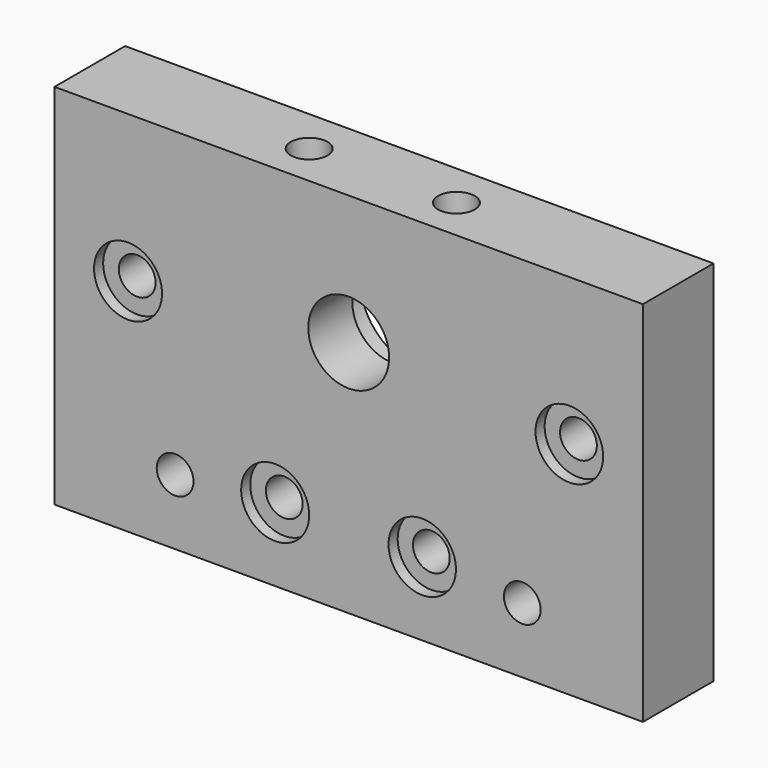
from build123d import *

# Parameters (mm, degrees)
SKETCH019_W     = 80
SKETCH019_H     = 50
SKETCH019_R     = 2.5
SKETCH019_R_2   = 5.5
PAD004_DEPTH    = 12
SKETCH020_R     = 2.5
POCKET012_DEPTH = 11
SKETCH021_R     = 8.05
POCKET013_DEPTH = 4.5
SKETCH022_R     = 4.6
SKETCH022_R_2   = 4.624594
SKETCH022_R_3   = 4.583454
SKETCH022_R_4   = 4.624604
POCKET014_DEPTH = 1.55


with BuildPart() as part:
    # Sketch019 → Pad004 (new body)
    with BuildSketch(Plane(origin=(78, -372, 100), x_dir=(-1, 0, 0), z_dir=(0, 1, 0))):
        with Locations((40, 25)):
            Rectangle(SKETCH019_W, SKETCH019_H)
        with Locations((10, 30)):
            Circle(SKETCH019_R, mode=Mode.SUBTRACT)
        with Locations((30, 10)):
            Circle(SKETCH019_R, mode=Mode.SUBTRACT)
        with Locations((16.4, 8.9)):
            Circle(SKETCH019_R, mode=Mode.SUBTRACT)
        with Locations((50, 10)):
            Circle(SKETCH019_R, mode=Mode.SUBTRACT)
        with Locations((63.6, 8.9)):
            Circle(SKETCH019_R, mode=Mode.SUBTRACT)
        with Locations((70, 30)):
            Circle(SKETCH019_R, mode=Mode.SUBTRACT)
        with Locations((40, 32.4)):
            Circle(SKETCH019_R_2, mode=Mode.SUBTRACT)
    extrude(amount=PAD004_DEPTH)

    # Sketch020 → Pocket012 (cut)
    with BuildSketch(Plane(origin=(78, -372, 150), x_dir=(1, 0, 0), z_dir=(0, 0, 1))):
        with Locations((-30.033846, 5.850095)):
            Circle(SKETCH020_R)
        with Locations((-50.003807, 5.788844)):
            Circle(SKETCH020_R)
    extrude(amount=-POCKET012_DEPTH, mode=Mode.SUBTRACT)

    # Sketch021 → Pocket013 (cut)
    with BuildSketch(Plane(origin=(78, -360, 100), x_dir=(-1, 0, 0), z_dir=(0, 1, 0))):
        with Locations((40, 32.4)):
            Circle(SKETCH021_R)
    extrude(amount=-POCKET013_DEPTH, mode=Mode.SUBTRACT)

    # Sketch022 → Pocket014 (cut)
    with BuildSketch(Plane(origin=(78, -372, 100), x_dir=(-1, 0, 0), z_dir=(0, -1, 0))):
        with Locations((10, -30)):
            Circle(SKETCH022_R)
        with Locations((70, -30)):
            Circle(SKETCH022_R_2)
        with Locations((30, -10)):
            Circle(SKETCH022_R_3)
        with Locations((50, -10)):
            Circle(SKETCH022_R_4)
    extrude(amount=-POCKET014_DEPTH, mode=Mode.SUBTRACT)


solid = part.part
